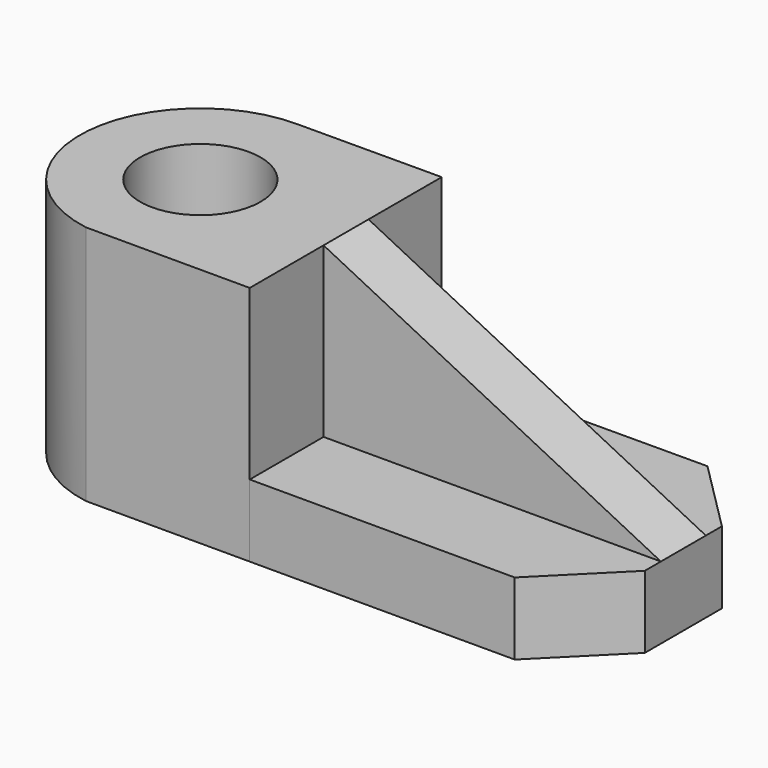
from build123d import *

# Parameters (mm, degrees)
F1_DEPTH = 22.86
F0_R     = 19.05
F2_DEPTH = 76.2
F3_DEPTH = 22.86
F0_W     = 106.68
F0_H     = 17.78
F4_DEPTH = 76.2
F6_DEPTH = 25.4


with BuildPart() as f1:
    # F0 (on Top) → F1 (new body)
    with BuildSketch(Plane.XY):
        Polygon((45.72, -8.450483), (45.72, -37.628572), (129.54, -37.660483), (152.4, -14.800483), (152.4, -8.450483), align=None)
    extrude(amount=F1_DEPTH)

    # F0 (on Top) → F2 (join)
    with BuildSketch(Plane.XY):
        with BuildLine():
            Line((45.72, 38.255124), (0, 38.1))
            ThreePointArc((0, 38.1), (-37.977013, 3.05884), (-6.097931, -37.608845))
            Line((-6.097931, -37.608845), (45.72, -37.628572))
            Line((45.72, -37.628572), (45.72, -8.450483))
            Line((45.72, -8.450483), (45.72, 9.329517))
            Line((45.72, 9.329517), (45.72, 38.255124))
        make_face()
        Circle(F0_R, mode=Mode.SUBTRACT)
    extrude(amount=F2_DEPTH)

    # F0 (on Top) → F3 (join)
    with BuildSketch(Plane.XY):
        Polygon((129.54, 38.539517), (45.72, 38.255124), (45.72, 9.329517), (152.4, 9.329517), (152.4, 15.679517), align=None)
    extrude(amount=F3_DEPTH)

    # F0 (on Top) → F4 (join)
    with BuildSketch(Plane.XY):
        with Locations((99.06, 0.439517)):
            Rectangle(F0_W, F0_H)
    extrude(amount=F4_DEPTH)

    # F5 (on face) → F6 (cut)
    with BuildSketch(Plane.XZ.offset(8.450483)):
        Polygon((152.4, 76.2), (45.72, 76.2), (152.4, 22.86), align=None)
    extrude(amount=-F6_DEPTH, mode=Mode.SUBTRACT)


solid = f1.part
